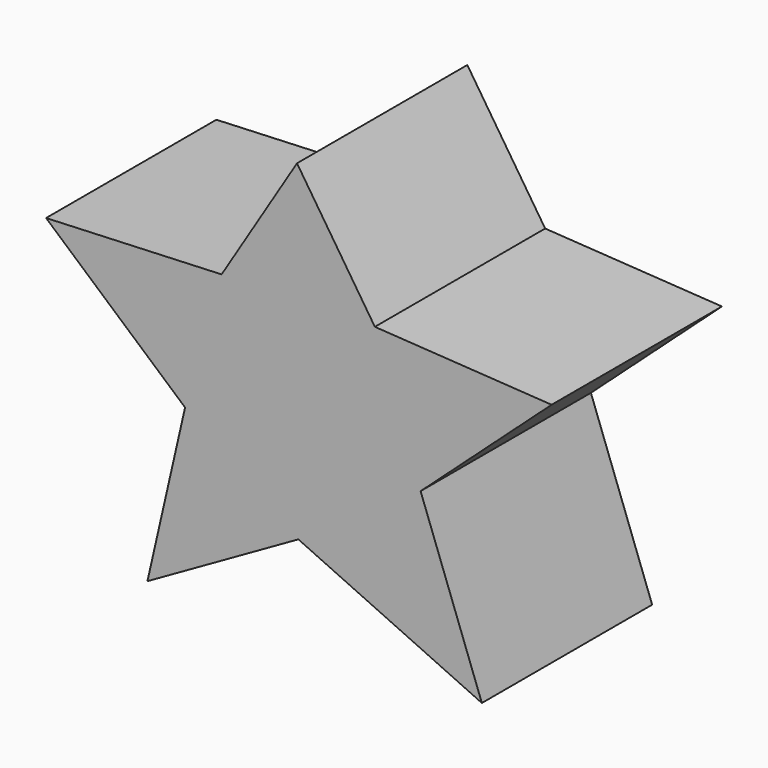
from build123d import *

# Parameters (mm, degrees)
F1_DEPTH = 63.5


with BuildPart() as f1:
    # F0 (on Front) → F1 (new body)
    with BuildSketch(Plane.XZ):
        Polygon((0, 86.047202), (-22.497155, 49.544945), (-74.853934, 47.332685), (-33.558447, 11.199133), (-33.401991, 11.005372), (-44.619739, -38.207963), (0.404536, -12.584389), (55.13744, -37.764196), (36.865104, 11.936555), (75.948335, 47.332685), (23.222847, 50.651066), align=None)
    extrude(amount=-F1_DEPTH)


solid = f1.part
